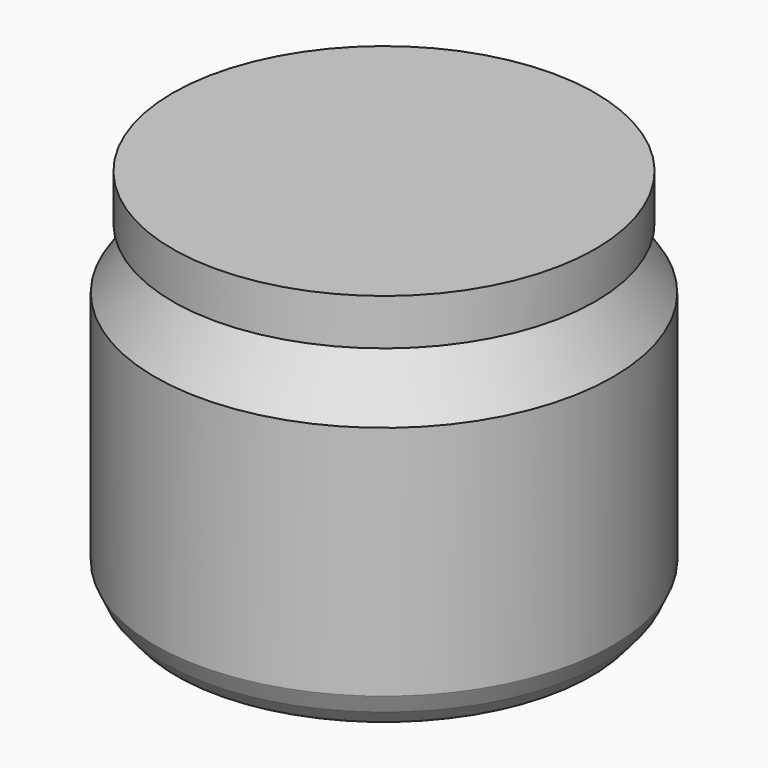
from build123d import *


with BuildPart() as f1:
    # F0 (on Front) → F1 (revolve)
    with BuildSketch(Plane.XZ):
        Polygon((-16.601146, 28.379381), (0, 28.379381), (0, 32.335802), (-18.117774, 32.335802), (-18.117774, 28.379381), align=None)
        Polygon((-18.909058, 1.343841), (-17.78, 0), (0, 0), (0, 28.379381), (-16.601146, 28.379381), (-16.601146, 27.78592), (-19.634402, 23.170095), (-19.634402, 2.926409), align=None)
    revolve(axis=Axis((0, 0, 16.167901), (0, 0, -1)))


solid = f1.part
